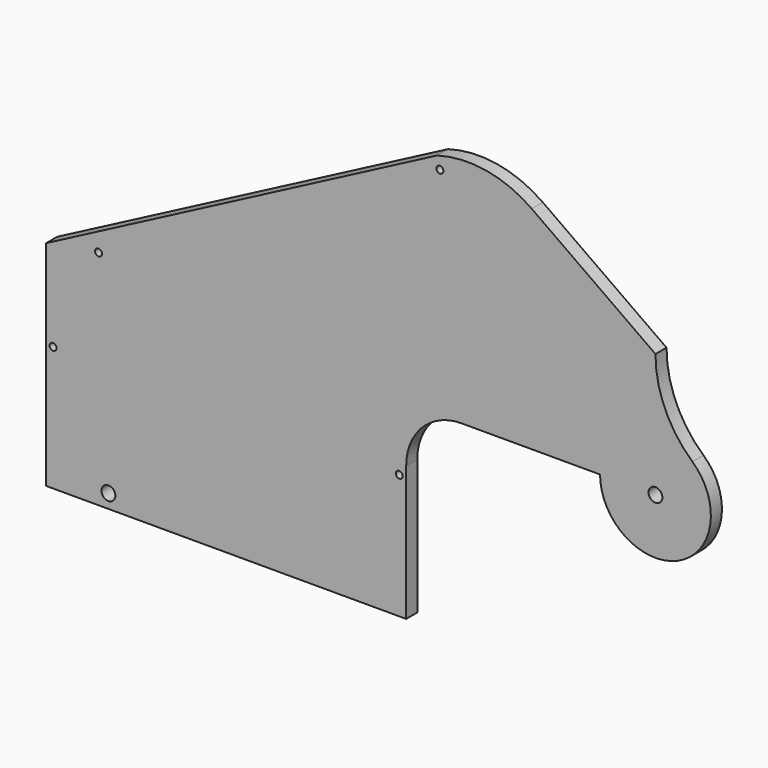
from build123d import *

# Parameters (mm, degrees)
F1_DEPTH = 12.7
F3_D     = 12.7
F5_D     = 6.35
F7_D     = 6.35
F9_D     = 6.35
F11_D    = 6.35


with BuildPart() as f1:
    # F0 (on Front) → F1 (new body)
    with BuildSketch(Plane.XZ):
        with BuildLine():
            Line((-326.100796, -8.113854), (-326.100796, -204.056984))
            Line((-326.100796, -204.056984), (4.099204, -204.056984))
            Line((4.099204, -204.056984), (4.099204, -80.450462))
            ThreePointArc((4.099204, -80.450462), (18.97818, -44.529437), (54.899204, -29.650462))
            Line((54.899204, -29.650462), (181.899204, -29.650462))
            ThreePointArc((181.899204, -29.650462), (253.438217, -76.024305), (266.565871, 8.213623))
            ThreePointArc((266.565871, 8.213623), (241.514438, 42.546778), (232.699367, 84.123628))
            Line((232.699367, 84.123628), (119.216243, 164.528722))
            ThreePointArc((119.216243, 164.528722), (77.53434, 181.786259), (32.489865, 179.296508))
            Line((32.489865, 179.296508), (-326.100796, -8.113854))
        make_face()
    extrude(amount=F1_DEPTH)

    # F3 (through all)
    with Locations(Plane.XZ.offset(12.7)):
        with Locations((232.699204, -29.650462), (-268.950796, -191.356984)):
            Hole(F3_D / 2)

    # F5 (through all)
    with Locations(Plane.XZ.offset(12.7)):
        with Locations((-319.750796, -89.756984)):
            Hole(F5_D / 2)

    # F7 (through all)
    with Locations(Plane.XZ.offset(12.7)):
        with Locations((-2.250796, -89.756984)):
            Hole(F7_D / 2)

    # F9 (through all)
    with Locations(Plane.XZ.offset(12.7)):
        with Locations((35.026812, 168.661091)):
            Hole(F9_D / 2)

    # F11 (through all)
    with Locations(Plane.XZ.offset(12.7)):
        with Locations((-278.057724, 0)):
            Hole(F11_D / 2)


solid = f1.part
